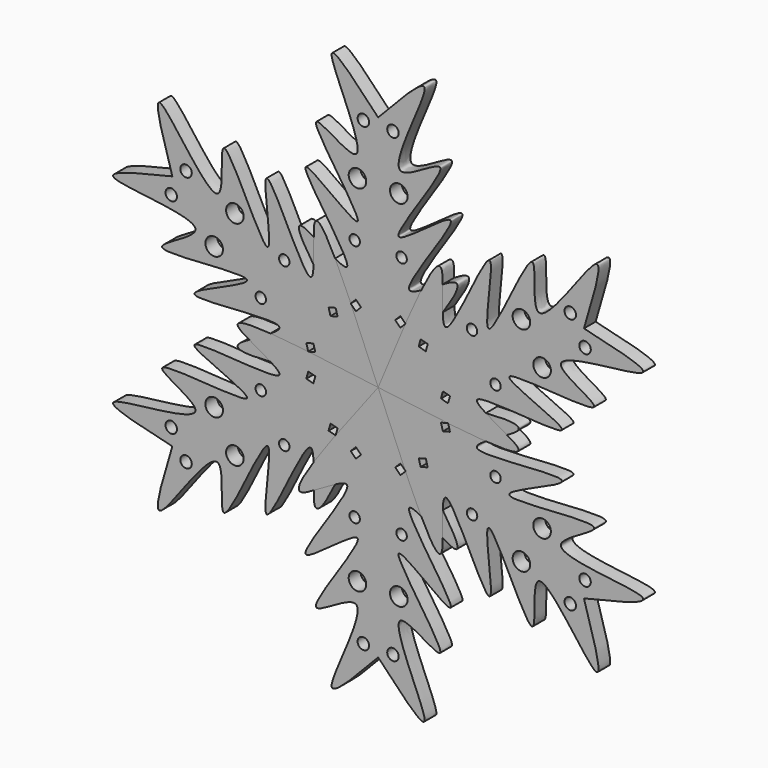
from build123d import *

# Parameters (mm, degrees)
F0_R     = 1.427268718
F0_R_2   = 2.3998387714
F0_R_3   = 1.5670949017
F1_DEPTH = 4
F3_COUNT = 6


with BuildPart() as f1:
    # F0 (on Front) → F1 (new body)
    with BuildSketch(Plane.XZ):
        with BuildLine():
            add(Edge.make_bspline(
                [(0, 64.9492964149), (6.4388538333, 71.8194544568), (20.374671213, 86.6887573362), (-3.2121796628, 43.7785156904), (27.6596908269, 68.8907157982), (-7.2139210972, 24.7672690452), (32.5597405507, 59.8029669546), (-2.5899083893, 15.7275556197), (32.8900536017, 42.8181765922), (12.6763313198, 16.5027822564), (0, 0)],
                knots=[0, 0, 0, 0, 0.1141778688, 0.2471188149, 0.3423971751, 0.476933562, 0.5903320294, 0.7248684097, 0.8274608137, 1, 1, 1, 1], degree=3))
            add(Edge.make_bspline(
                [(0, 64.9492964149), (-6.4388538333, 71.8194544568), (-20.374671213, 86.6887573362), (3.2121796628, 43.7785156904), (-27.6596908269, 68.8907157982), (7.2139210972, 24.7672690452), (-32.5597405507, 59.8029669546), (2.5899083893, 15.7275556197), (-32.8900536017, 42.8181765922), (-12.6763313198, 16.5027822564), (0, 0)],
                knots=[0, 0, 0, 0, 0.1141778688, 0.2471188149, 0.3423971751, 0.476933562, 0.5903320294, 0.7248684097, 0.8274608137, 1, 1, 1, 1], degree=3))
        make_face()
        Polygon((-7.4966121465, 17.7372731268), (-6.0823985841, 19.1514866892), (-4.6681850217, 17.7372731268), (-6.0823985841, 16.3230595645), align=None, mode=Mode.SUBTRACT)
        with Locations((-6.4134597778, 33.3314985037)):
            Circle(F0_R, mode=Mode.SUBTRACT)
        Polygon((4.6681850217, 17.7372731268), (6.0823985841, 19.1514866892), (7.4966121465, 17.7372731268), (6.0823985841, 16.3230595645), align=None, mode=Mode.SUBTRACT)
        with Locations((6.4134597778, 33.3314985037)):
            Circle(F0_R, mode=Mode.SUBTRACT)
        with Locations((-5.6477626786, 48.4766475856)):
            Circle(F0_R_2, mode=Mode.SUBTRACT)
        with Locations((-4.0466273203, 62.9561245441)):
            Circle(F0_R_3, mode=Mode.SUBTRACT)
        with Locations((5.6477626786, 48.4766475856)):
            Circle(F0_R_2, mode=Mode.SUBTRACT)
        with Locations((4.0466273203, 62.9561245441)):
            Circle(F0_R_3, mode=Mode.SUBTRACT)
    extrude(amount=F1_DEPTH)


with BuildPart() as f3_1:
    # F3: instance of F1
    add(f1.part.rotate(Axis((0, -34.4154164195, 0), (0, -1, 0)), 1 * 360 / F3_COUNT))


with BuildPart() as f3_2:
    # F3: instance of F1
    add(f1.part.rotate(Axis((0, -34.4154164195, 0), (0, -1, 0)), 2 * 360 / F3_COUNT))


with BuildPart() as f3_3:
    # F3: instance of F1
    add(f1.part.rotate(Axis((0, -34.4154164195, 0), (0, -1, 0)), 3 * 360 / F3_COUNT))


with BuildPart() as f3_4:
    # F3: instance of F1
    add(f1.part.rotate(Axis((0, -34.4154164195, 0), (0, -1, 0)), 4 * 360 / F3_COUNT))


with BuildPart() as f3_5:
    # F3: instance of F1
    add(f1.part.rotate(Axis((0, -34.4154164195, 0), (0, -1, 0)), 5 * 360 / F3_COUNT))


solid = Compound([f1.part, f3_1.part, f3_2.part, f3_3.part, f3_4.part, f3_5.part])
